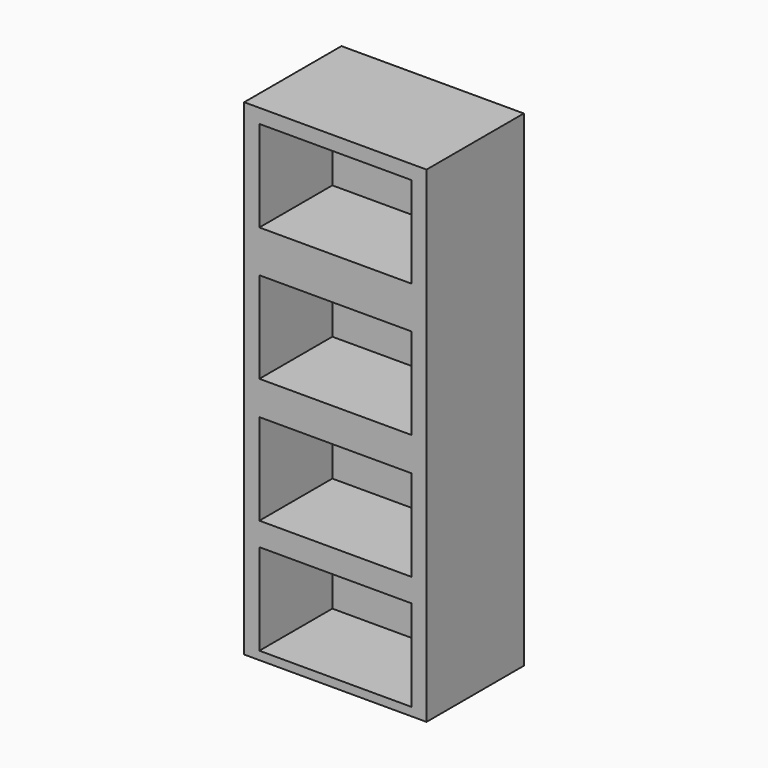
from build123d import *

# Parameters (mm, degrees)
F0_W     = 457.2
F0_H     = 304.8
F1_DEPTH = 1219.2
F2_W     = 381
F2_H     = 228.6
F3_DEPTH = 228.6


with BuildPart() as f1:
    # F0 (on Top) → F1 (new body)
    with BuildSketch(Plane.XY):
        with Locations((-25.902518, 25.154568)):
            Rectangle(F0_W, F0_H)
    extrude(amount=F1_DEPTH)

    # F2 (on face) → F3 (cut)
    with BuildSketch(Plane.XZ.offset(127.245432)):
        with Locations((-25.902518, 1069.40844)):
            Rectangle(F2_W, F2_H)
        with Locations((-25.902518, 735.381065)):
            Rectangle(F2_W, F2_H)
        with Locations((-25.902518, 422.230378)):
            Rectangle(F2_W, F2_H)
        with Locations((-25.902518, 135.175608)):
            Rectangle(F2_W, F2_H)
    extrude(amount=-F3_DEPTH, mode=Mode.SUBTRACT)


solid = f1.part
